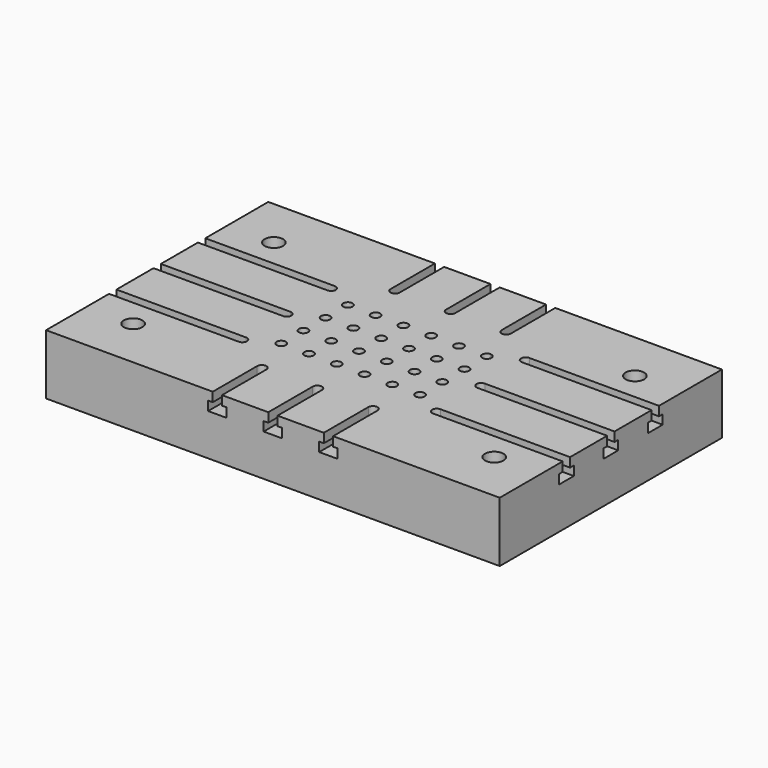
from build123d import *

# Parameters (mm, degrees)
F0_W      = 1244.6
F0_H      = 762
F1_DEPTH  = 165.1
F3_DEPTH  = 152.4
F5_DEPTH  = 355.6
F7_DEPTH  = 355.6
F9_DEPTH  = 152.4
F10_R     = 12.7
F11_DEPTH = 50.8
F12_R     = 12.7
F13_DEPTH = 165.101
F15_R     = 25.4
F16_DEPTH = 25.4
F17_R     = 25.4
F18_DEPTH = 165.101


with BuildPart() as f1:
    # F0 (on Top) → F1 (new body)
    with BuildSketch(Plane.XY):
        with Locations((622.3, 381)):
            Rectangle(F0_W, F0_H)
    extrude(amount=-F1_DEPTH)

    # F2 (on face) → F3 (cut)
    with BuildSketch(Plane.XZ):
        Polygon((457.2, -25.4), (444.5, -25.4), (444.5, -50.8), (495.3, -50.8), (495.3, -25.4), (482.6, -25.4), (482.6, 0), (457.2, 0), align=None)
        Polygon((635, 0), (609.6, 0), (609.6, -25.4), (596.9, -25.4), (596.9, -50.8), (647.7, -50.8), (647.7, -25.4), (635, -25.4), align=None)
        Polygon((787.4, 0), (762, 0), (762, -25.4), (749.3, -25.4), (749.3, -50.8), (800.1, -50.8), (800.1, -25.4), (787.4, -25.4), align=None)
    extrude(amount=-F3_DEPTH, mode=Mode.SUBTRACT)

    # F4 (on face) → F5 (cut)
    with BuildSketch(Plane.YZ.offset(1244.6)):
        Polygon((241.3, 0), (215.9, 0), (215.9, -25.4), (203.2, -25.4), (203.2, -50.8), (254, -50.8), (254, -25.4), (241.3, -25.4), align=None)
        Polygon((393.7, 0), (368.3, 0), (368.3, -25.4), (355.6, -25.4), (355.6, -50.8), (406.4, -50.8), (406.4, -25.4), (393.7, -25.4), align=None)
        Polygon((546.1, 0), (520.7, 0), (520.7, -25.4), (508, -25.4), (508, -50.8), (558.8, -50.8), (558.8, -25.4), (546.1, -25.4), align=None)
    extrude(amount=-F5_DEPTH, mode=Mode.SUBTRACT)

    # F6 (on face) → F7 (cut)
    with BuildSketch(Plane(origin=(0, 0, 0), x_dir=(0, -1, 0), z_dir=(-1, 0, 0))):
        Polygon((-520.7, 0), (-546.1, 0), (-546.1, -25.4), (-558.8, -25.4), (-558.8, -50.8), (-508, -50.8), (-508, -25.4), (-520.7, -25.4), align=None)
        Polygon((-368.3, 0), (-393.7, 0), (-393.7, -25.4), (-406.4, -25.4), (-406.4, -50.8), (-355.6, -50.8), (-355.6, -25.4), (-368.3, -25.4), align=None)
        Polygon((-215.9, 0), (-241.3, 0), (-241.3, -25.4), (-254, -25.4), (-254, -50.8), (-203.2, -50.8), (-203.2, -25.4), (-215.9, -25.4), align=None)
    extrude(amount=-F7_DEPTH, mode=Mode.SUBTRACT)

    # F8 (on face) → F9 (cut)
    with BuildSketch(Plane(origin=(0, 762, 0), x_dir=(-1, 0, 0), z_dir=(0, 1, 0))):
        Polygon((-762, 0), (-787.4, 0), (-787.4, -25.4), (-800.1, -25.4), (-800.1, -50.8), (-749.3, -50.8), (-749.3, -25.4), (-762, -25.4), align=None)
        Polygon((-609.6, 0), (-635, 0), (-635, -25.4), (-647.7, -25.4), (-647.7, -50.8), (-596.9, -50.8), (-596.9, -25.4), (-609.6, -25.4), align=None)
        Polygon((-457.2, 0), (-482.6, 0), (-482.6, -25.4), (-495.3, -25.4), (-495.3, -50.8), (-444.5, -50.8), (-444.5, -25.4), (-457.2, -25.4), align=None)
    extrude(amount=-F9_DEPTH, mode=Mode.SUBTRACT)

    # F10 (on face) → F11 (cut)
    with BuildSketch(Plane.XY):
        with BuildLine():
            ThreePointArc((482.6, 609.6), (469.9, 622.3), (457.2, 609.6))
            Line((457.2, 609.6), (482.6, 609.6))
        make_face()
        with BuildLine():
            Line((482.6, 609.6), (457.2, 609.6))
            ThreePointArc((457.2, 609.6), (469.9, 596.9), (482.6, 609.6))
        make_face()
        with BuildLine():
            ThreePointArc((635, 609.6), (622.3, 622.3), (609.6, 609.6))
            Line((609.6, 609.6), (635, 609.6))
        make_face()
        with BuildLine():
            Line((635, 609.6), (609.6, 609.6))
            ThreePointArc((609.6, 609.6), (622.3, 596.9), (635, 609.6))
        make_face()
        with BuildLine():
            ThreePointArc((787.4, 609.6), (774.7, 622.3), (762, 609.6))
            Line((762, 609.6), (787.4, 609.6))
        make_face()
        with BuildLine():
            Line((787.4, 609.6), (762, 609.6))
            ThreePointArc((762, 609.6), (774.7, 596.9), (787.4, 609.6))
        make_face()
        with BuildLine():
            ThreePointArc((889, 546.1), (876.3, 533.4), (889, 520.7))
            Line((889, 520.7), (889, 546.1))
        make_face()
        with BuildLine():
            Line((889, 546.1), (889, 520.7))
            ThreePointArc((889, 520.7), (897.9802561211, 524.4197438789), (901.7, 533.4))
            ThreePointArc((901.7, 533.4), (897.9802561211, 542.3802561211), (889, 546.1))
        make_face()
        with BuildLine():
            ThreePointArc((889, 393.7), (876.3, 381), (889, 368.3))
            Line((889, 368.3), (889, 393.7))
        make_face()
        with BuildLine():
            Line((889, 393.7), (889, 368.3))
            ThreePointArc((889, 368.3), (897.9802561211, 372.0197438789), (901.7, 381))
            ThreePointArc((901.7, 381), (897.9802561211, 389.9802561211), (889, 393.7))
        make_face()
        with BuildLine():
            ThreePointArc((889, 241.3), (876.3, 228.6), (889, 215.9))
            Line((889, 215.9), (889, 241.3))
        make_face()
        with BuildLine():
            Line((889, 241.3), (889, 215.9))
            ThreePointArc((889, 215.9), (897.9802561211, 219.6197438789), (901.7, 228.6))
            ThreePointArc((901.7, 228.6), (897.9802561211, 237.5802561211), (889, 241.3))
        make_face()
        with BuildLine():
            ThreePointArc((355.6, 393.7), (342.9, 381), (355.6, 368.3))
            Line((355.6, 368.3), (355.6, 393.7))
        make_face()
        with BuildLine():
            Line((355.6, 393.7), (355.6, 368.3))
            ThreePointArc((355.6, 368.3), (364.5802561211, 372.0197438789), (368.3, 381))
            ThreePointArc((368.3, 381), (364.5802561211, 389.9802561211), (355.6, 393.7))
        make_face()
        with BuildLine():
            ThreePointArc((482.6, 152.4), (469.9, 165.1), (457.2, 152.4))
            Line((457.2, 152.4), (482.6, 152.4))
        make_face()
        with BuildLine():
            Line((482.6, 152.4), (457.2, 152.4))
            ThreePointArc((457.2, 152.4), (469.9, 139.7), (482.6, 152.4))
        make_face()
        with BuildLine():
            ThreePointArc((635, 152.4), (622.3, 165.1), (609.6, 152.4))
            Line((609.6, 152.4), (635, 152.4))
        make_face()
        with BuildLine():
            Line((635, 152.4), (609.6, 152.4))
            ThreePointArc((609.6, 152.4), (622.3, 139.7), (635, 152.4))
        make_face()
        with BuildLine():
            ThreePointArc((787.4, 152.4), (774.7, 165.1), (762, 152.4))
            Line((762, 152.4), (787.4, 152.4))
        make_face()
        with BuildLine():
            Line((787.4, 152.4), (762, 152.4))
            ThreePointArc((762, 152.4), (774.7, 139.7), (787.4, 152.4))
        make_face()
        with Locations((355.6, 533.4)):
            Circle(F10_R)
        with Locations((355.6, 228.6)):
            Circle(F10_R)
    extrude(amount=-F11_DEPTH, mode=Mode.SUBTRACT)

    # F12 (on face) → F13 (cut, through all)
    with BuildSketch(Plane.XY):
        with BuildLine():
            ThreePointArc((419.1, 495.3), (431.8, 482.6), (444.5, 495.3))
            ThreePointArc((444.5, 495.3), (431.8, 508), (419.1, 495.3))
        make_face()
        with Locations((508, 495.3)):
            Circle(F12_R)
        with Locations((584.2, 495.3)):
            Circle(F12_R)
        with Locations((660.4, 495.3)):
            Circle(F12_R)
        with Locations((736.6, 495.3)):
            Circle(F12_R)
        with BuildLine():
            Line((812.8, 495.3), (825.5, 495.3))
            ThreePointArc((825.5, 495.3), (821.7802561211, 504.2802561211), (812.8, 508))
            Line((812.8, 508), (812.8, 495.3))
        make_face()
        with BuildLine():
            ThreePointArc((812.8, 508), (803.8197438789, 486.3197438789), (825.5, 495.3))
            Line((825.5, 495.3), (812.8, 495.3))
            Line((812.8, 495.3), (812.8, 508))
        make_face()
        with Locations((431.8, 419.1)):
            Circle(F12_R)
        with Locations((508, 419.1)):
            Circle(F12_R)
        with Locations((584.2, 419.1)):
            Circle(F12_R)
        with Locations((660.4, 419.1)):
            Circle(F12_R)
        with Locations((736.6, 419.1)):
            Circle(F12_R)
        with Locations((812.8, 419.1)):
            Circle(F12_R)
        with Locations((431.8, 342.9)):
            Circle(F12_R)
        with Locations((508, 342.9)):
            Circle(F12_R)
        with Locations((584.2, 342.9)):
            Circle(F12_R)
        with Locations((660.4, 342.9)):
            Circle(F12_R)
        with Locations((736.6, 342.9)):
            Circle(F12_R)
        with Locations((812.8, 342.9)):
            Circle(F12_R)
        with Locations((431.8, 266.7)):
            Circle(F12_R)
        with Locations((508, 266.7)):
            Circle(F12_R)
        with Locations((584.2, 266.7)):
            Circle(F12_R)
        with Locations((660.4, 266.7)):
            Circle(F12_R)
        with Locations((736.6, 266.7)):
            Circle(F12_R)
        with BuildLine():
            ThreePointArc((812.8, 254), (821.7802561211, 257.7197438789), (825.5, 266.7))
            ThreePointArc((825.5, 266.7), (803.8197438789, 275.6802561211), (812.8, 254))
        make_face()
    extrude(amount=-F13_DEPTH, mode=Mode.SUBTRACT)

    # F15 (on offset) → F16 (cut)
    with BuildSketch(Plane.XY.offset(-25.4)):
        with BuildLine():
            ThreePointArc((749.3, 152.4), (774.7, 127), (800.1, 152.4))
            ThreePointArc((800.1, 152.4), (774.7, 177.8), (749.3, 152.4))
        make_face()
        with Locations((622.3, 152.4)):
            Circle(F15_R)
        with Locations((469.9, 152.4)):
            Circle(F15_R)
        with Locations((355.6, 381)):
            Circle(F15_R)
        with Locations((889, 381)):
            Circle(F15_R)
        with Locations((889, 228.6)):
            Circle(F15_R)
        with Locations((774.7, 609.6)):
            Circle(F15_R)
        with Locations((622.3, 609.6)):
            Circle(F15_R)
        with Locations((469.9, 609.6)):
            Circle(F15_R)
        with Locations((889, 533.4)):
            Circle(F15_R)
        with Locations((355.6, 228.6)):
            Circle(F15_R)
        with Locations((355.6, 533.4)):
            Circle(F15_R)
    extrude(amount=-F16_DEPTH, mode=Mode.SUBTRACT)

    # F17 (on face) → F18 (cut, through all)
    with BuildSketch(Plane.XY):
        with Locations((127, 622.3)):
            Circle(F17_R)
        with Locations((1117.6, 622.3)):
            Circle(F17_R)
        with Locations((127, 139.7)):
            Circle(F17_R)
        with Locations((1117.6, 139.7)):
            Circle(F17_R)
    extrude(amount=-F18_DEPTH, mode=Mode.SUBTRACT)


solid = f1.part
